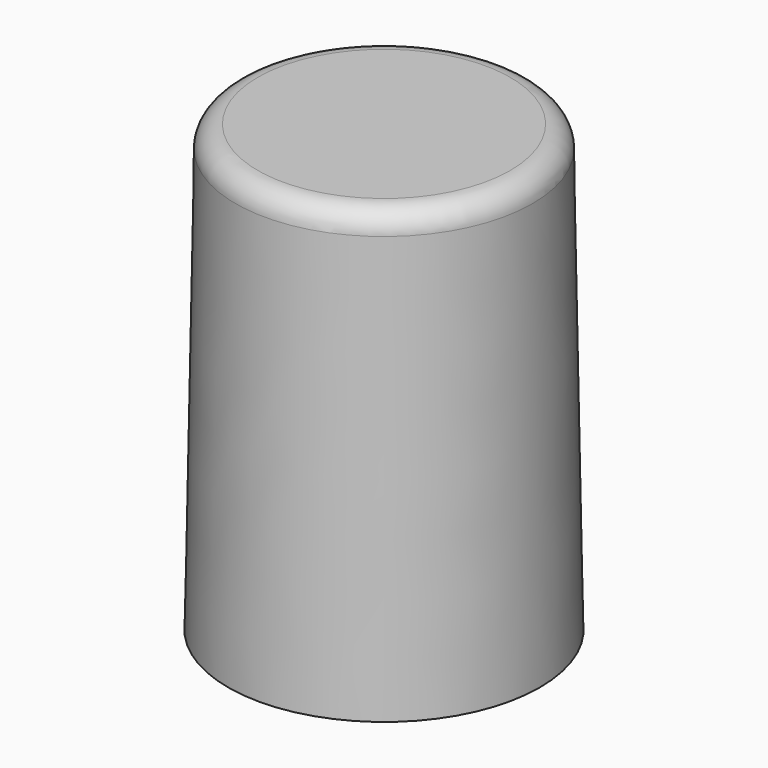
from build123d import *

# Parameters (mm, degrees)
F0_R     = 8.89
F1_DEPTH = 25.4
F1_TAPER = 1
F2_T     = -0.508
F3_R     = 1.27


with BuildPart() as f1:
    # F0 (on Top) → F1 (new body)
    with BuildSketch(Plane.XY):
        Circle(F0_R)
    extrude(amount=F1_DEPTH, taper=F1_TAPER)

    # F2
    f2_openings = [f1.faces().sort_by_distance(p)[0] for p in [
        (0, 0, 0),
    ]]
    offset(amount=F2_T, openings=f2_openings)

    # F3
    f3_edges = [f1.edges().sort_by_distance(p)[0] for p in [
        (-8.446641, 0, 25.4),
    ]]
    fillet(f3_edges, radius=F3_R)


solid = f1.part
